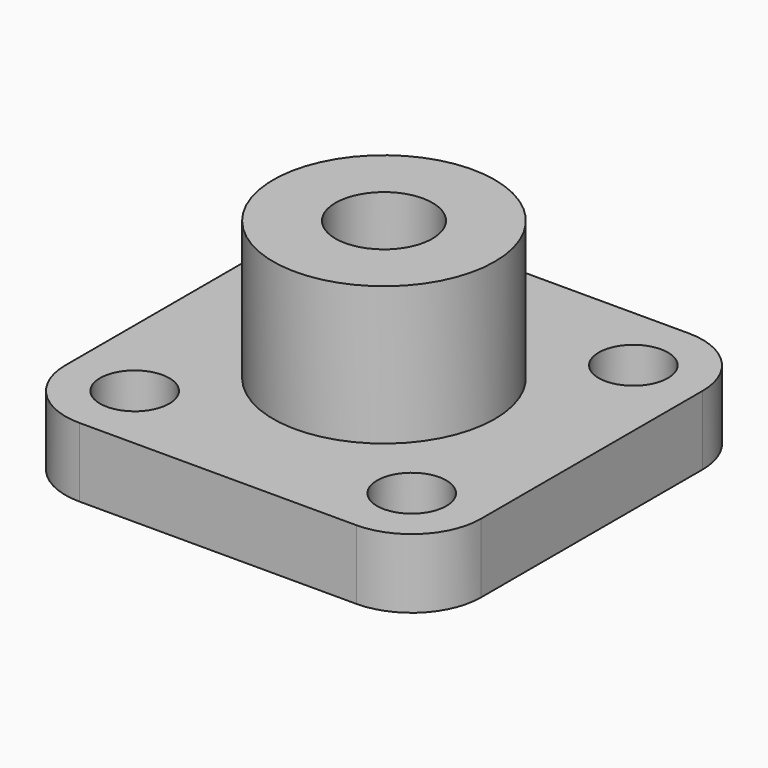
from build123d import *

# Parameters (mm, degrees)
F0_W     = 60
F0_H     = 60
F1_DEPTH = 5
F2_R     = 10
F4_D     = 10
F4_DEPTH = 10
F4_TIP   = 3.0043030951
F3_R     = 16
F5_DEPTH = 20
F7_D     = 14


with BuildPart() as f1:
    # F0 (on Top) → F1 (new body, symmetric)
    with BuildSketch(Plane.XY):
        Rectangle(F0_W, F0_H)
        Rectangle(F0_W, F0_H)
    extrude(amount=F1_DEPTH, both=True)

    # F2
    f2_edges = [f1.edges().sort_by_distance(p)[0] for p in [
        (-30, 30, 0),
        (30, 30, 0),
        (30, -30, 0),
        (-30, -30, 0),
    ]]
    fillet(f2_edges, radius=F2_R)

    # F4
    with Locations(Plane.XY.offset(5)):
        with Locations((-20, 20), (20, 20), (20, -20), (-20, -20)):
            Hole(F4_D / 2, depth=F4_DEPTH)
            with Locations((0, 0, -(F4_DEPTH + F4_TIP / 2))):  # 118° drill point
                Cone(0, F4_D / 2, F4_TIP, mode=Mode.SUBTRACT)

    # F3 (on face) → F5 (join)
    with BuildSketch(Plane.XY.offset(5)):
        Circle(F3_R)
    extrude(amount=F5_DEPTH)

    # F7 (through all)
    with Locations(Plane.XY.offset(25)):
        with Locations((0, 0)):
            Hole(F7_D / 2)


solid = f1.part
